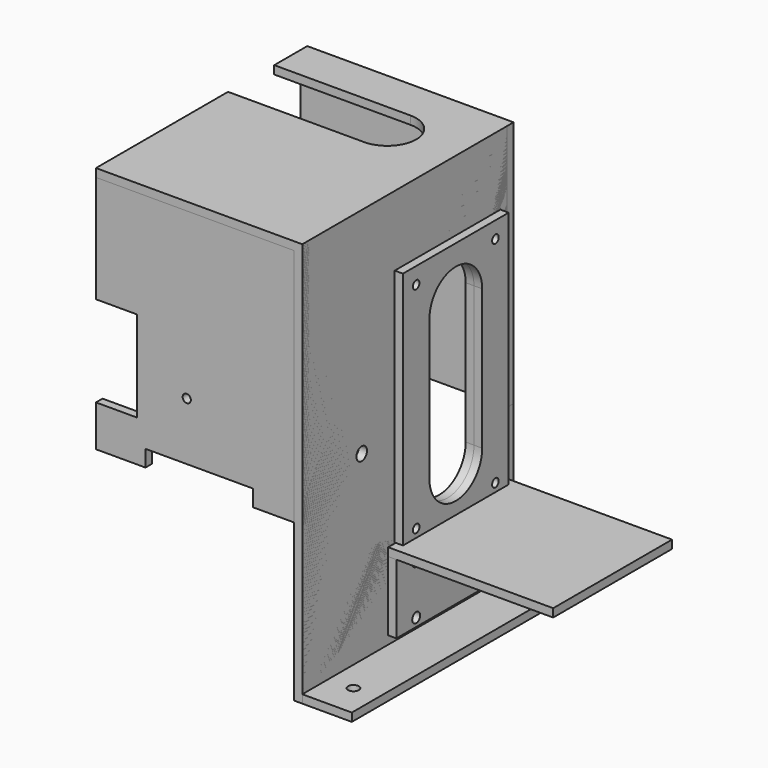
from build123d import *

# Parameters (mm, degrees)
F0_W      = 0.004675
F0_H      = 240
F0_H_2    = 5
F1_DEPTH  = 160
F2_W      = 125
F2_H      = 150
F3_DEPTH  = 5
F7_DEPTH  = 25
F8_W      = 160
F8_H      = 5
F9_DEPTH  = 30
F10_R     = 3.25
F11_DEPTH = 25
F13_DEPTH = 5.004675
F14_R     = 2.5
F15_DEPTH = 5.004675
F16_W     = 25
F16_H     = 55
F17_DEPTH = 5
F18_R     = 2.5
F18_W     = 65
F18_H     = 10
F19_DEPTH = 5
F20_R     = 4
F20_R_2   = 3
F21_DEPTH = 5.004675
F22_W     = 80
F22_H     = 150
F22_R     = 2.5
F23_DEPTH = 5
F25_W     = 80
F25_H     = 5
F26_DEPTH = 5
F24_W     = 90
F24_H     = 42
F24_R     = 3
F27_DEPTH = 5
F28_W     = 90
F28_H     = 5
F29_DEPTH = 100


with BuildPart() as f1:
    # F0 (on Front) → F1 (new body)
    with BuildSketch(Plane.XZ):
        Polygon((62.495325, 122.5), (-62.5, 122.5), (-62.5, 117.5), (57.495325, 117.5), (57.495325, -122.5), (62.495325, -122.5), (62.495325, 117.5), align=None)
        with Locations((62.497662, -2.5)):
            Rectangle(F0_W, F0_H)
        with Locations((62.497662, 120)):
            Rectangle(F0_W, F0_H_2)
    extrude(amount=F1_DEPTH)

    # F2 (on face) → F3 (join)
    with BuildSketch(Plane.XZ.offset(160)):
        with Locations((0, 47.5)):
            Rectangle(F2_W, F2_H)
    extrude(amount=-F3_DEPTH)


with BuildPart() as f5_1:
    # F5: instance of F1
    add(f1.part.mirror(Plane(origin=(1.483739, -80, 44.470582), x_dir=(1, 0, 0), z_dir=(0, -1, 0))))


with BuildPart() as f7_tool:
    # F6 (on face) → F7 (new body)
    with BuildSketch(Plane.XY.offset(122.5)):
        with BuildLine():
            Line((-62.5, -25), (-62.5, -60))
            Line((-62.5, -60), (20, -60))
            ThreePointArc((20, -60), (37.5, -42.5), (20, -25))
            Line((20, -25), (-62.5, -25))
        make_face()
    extrude(amount=-F7_DEPTH)


with BuildPart() as f1_1:
    add(f1.part)

    # F7: cut by f7_tool
    add(f7_tool.part, mode=Mode.SUBTRACT)


with BuildPart() as f5_1_1:
    add(f5_1.part)

    # F7: cut by f7_tool
    add(f7_tool.part, mode=Mode.SUBTRACT)


with BuildPart() as f9:
    # F8 (on face) → F9 (new body)
    with BuildSketch(Plane.YZ.offset(62.5)):
        with Locations((-80, -120)):
            Rectangle(F8_W, F8_H)
    extrude(amount=F9_DEPTH)

    # F10 (on face) → F11 (cut)
    with BuildSketch(Plane.XY.offset(-117.5)):
        with Locations((77.5, -140)):
            Circle(F10_R)
        with Locations((77.5, -20)):
            Circle(F10_R)
    extrude(amount=-F11_DEPTH, mode=Mode.SUBTRACT)


with BuildPart() as f13_tool:
    # F12 (on face) → F13 (new body, through all)
    with BuildSketch(Plane.YZ.offset(62.5)):
        with BuildLine():
            Line((-30, -37.5), (-30, 47.5))
            ThreePointArc((-30, 47.5), (-50, 67.5), (-70, 47.5))
            Line((-70, 47.5), (-70, -37.5))
            ThreePointArc((-70, -37.5), (-50, -57.5), (-30, -37.5))
        make_face()
    extrude(amount=-F13_DEPTH)


with BuildPart() as f1_2:
    add(f1_1.part)

    # F13: cut by f13_tool
    add(f13_tool.part, mode=Mode.SUBTRACT)


with BuildPart() as f5_1_2:
    add(f5_1_1.part)

    # F13: cut by f13_tool
    add(f13_tool.part, mode=Mode.SUBTRACT)


with BuildPart() as f15_tool:
    # F14 (on face) → F15 (new body, through all)
    with BuildSketch(Plane.YZ.offset(62.5)):
        with Locations((-80, 70)):
            Circle(F14_R)
        with Locations((-20, 70)):
            Circle(F14_R)
        with Locations((-20, -60)):
            Circle(F14_R)
        with Locations((-80, -60)):
            Circle(F14_R)
    extrude(amount=-F15_DEPTH)


with BuildPart() as f1_3:
    add(f1_2.part)

    # F15: cut by f15_tool
    add(f15_tool.part, mode=Mode.SUBTRACT)

    # F16 (on face) → F17 (cut, through all)
    with BuildSketch(Plane.XZ.offset(160)):
        with Locations((-50, 25)):
            Rectangle(F16_W, F16_H)
    extrude(amount=-F17_DEPTH, mode=Mode.SUBTRACT)

    # F18 (on face) → F19 (cut, through all)
    with BuildSketch(Plane.XZ.offset(160)):
        with Locations((-7.5, 17.5)):
            Circle(F18_R)
        with Locations((0, -22.5)):
            Rectangle(F18_W, F18_H)
    extrude(amount=-F19_DEPTH, mode=Mode.SUBTRACT)


with BuildPart() as f5_1_3:
    add(f5_1_2.part)

    # F15: cut by f15_tool
    add(f15_tool.part, mode=Mode.SUBTRACT)


with BuildPart() as f21_tool:
    # F20 (on face) → F21 (new body, through all)
    with BuildSketch(Plane.YZ.offset(62.5)):
        with Locations((-115, -7.5)):
            Circle(F20_R)
        with Locations((-80, -77.5)):
            Circle(F20_R_2)
        with Locations((-20, -77.5)):
            Circle(F20_R_2)
        with Locations((-80, -107.5)):
            Circle(F20_R_2)
        with Locations((-20, -107.5)):
            Circle(F20_R_2)
    extrude(amount=-F21_DEPTH)


with BuildPart() as f1_4:
    add(f1_3.part)

    # F21: cut by f21_tool
    add(f21_tool.part, mode=Mode.SUBTRACT)


with BuildPart() as f5_1_4:
    add(f5_1_3.part)

    # F21: cut by f21_tool
    add(f21_tool.part, mode=Mode.SUBTRACT)


with BuildPart() as f23:
    # F22 (on face) → F23 (new body)
    with BuildSketch(Plane.YZ.offset(62.5)):
        with Locations((-50, 5)):
            Rectangle(F22_W, F22_H)
        with Locations((-80, -60)):
            Circle(F22_R, mode=Mode.SUBTRACT)
        with Locations((-20, -60)):
            Circle(F22_R, mode=Mode.SUBTRACT)
        with BuildLine():
            Line((-30, 47.5), (-30, -37.5))
            ThreePointArc((-30, -37.5), (-50, -57.5), (-70, -37.5))
            Line((-70, -37.5), (-70, 47.5))
            ThreePointArc((-70, 47.5), (-50, 67.5), (-30, 47.5))
        make_face(mode=Mode.SUBTRACT)
        with Locations((-80, 70)):
            Circle(F22_R, mode=Mode.SUBTRACT)
        with Locations((-20, 70)):
            Circle(F22_R, mode=Mode.SUBTRACT)
    extrude(amount=F23_DEPTH)

    # F25 (on face) → F26 (cut, through all)
    with BuildSketch(Plane.YZ.offset(67.5)):
        with Locations((-50, -67.5)):
            Rectangle(F25_W, F25_H)
    extrude(amount=-F26_DEPTH, mode=Mode.SUBTRACT)


with BuildPart() as f27:
    # F24 (on face) → F27 (new body)
    with BuildSketch(Plane.YZ.offset(62.5)):
        with Locations((-50, -91.5)):
            Rectangle(F24_W, F24_H)
        with Locations((-80, -107.5)):
            Circle(F24_R, mode=Mode.SUBTRACT)
        with Locations((-20, -107.5)):
            Circle(F24_R, mode=Mode.SUBTRACT)
        with Locations((-80, -77.5)):
            Circle(F24_R, mode=Mode.SUBTRACT)
        with Locations((-20, -77.5)):
            Circle(F24_R, mode=Mode.SUBTRACT)
    extrude(amount=F27_DEPTH)


with BuildPart() as f29:
    # F28 (on face) → F29 (new body)
    with BuildSketch(Plane.YZ.offset(62.5)):
        with Locations((-50, -68)):
            Rectangle(F28_W, F28_H)
    extrude(amount=F29_DEPTH)


solid = Compound([f9.part, f1_4.part, f5_1_4.part, f23.part, f27.part, f29.part])
